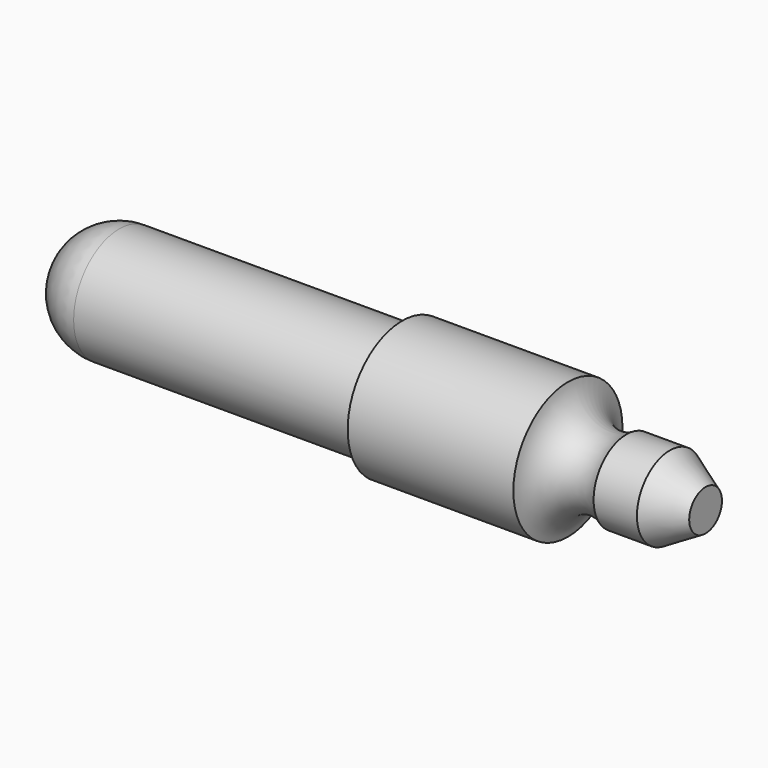
from build123d import *

# Parameters (mm, degrees)
F0_R     = 1.3589
F1_DEPTH = 3.302
F2_R     = 1.13665
F3_DEPTH = 5.6388


with BuildPart() as f1:
    # F0 (on Right) → F1 (new body)
    with BuildSketch(Plane.YZ):
        Circle(F0_R)
    extrude(amount=F1_DEPTH)

    # F2 (on face) → F3 (join)
    with BuildSketch(Plane(origin=(0, 0, 0), x_dir=(0, -1, 0), z_dir=(-1, 0, 0))):
        Circle(F2_R)
    extrude(amount=F3_DEPTH)

    # F4 (on Top) → F5 (revolve)
    with BuildSketch(Plane.XY):
        with BuildLine():
            Line((-6.7818, 0), (-5.6388, 0))
            Line((-5.6388, 0), (-5.6388, 1.13665))
            ThreePointArc((-5.6388, 1.13665), (-6.446636, 0.805981), (-6.7818, 0))
        make_face()
    revolve(axis=Axis((-6.2103, 0, 0), (-1, 0, 0)))

    # F6 (on Top) → F7 (revolve)
    with BuildSketch(Plane.XY):
        with BuildLine():
            Line((6.0452, 0), (3.302, 0))
            Line((3.302, 0), (3.302, -1.3589))
            ThreePointArc((3.302, -1.3589), (3.737246, -0.768925), (4.468674, -0.81915))
            Line((4.468674, -0.81915), (5.333006, -0.81915))
            Line((5.333006, -0.81915), (6.0452, -0.407965))
            Line((6.0452, -0.407965), (6.0452, 0))
        make_face()
    revolve(axis=Axis((4.6736, 0, 0), (-1, 0, 0)))


solid = f1.part
